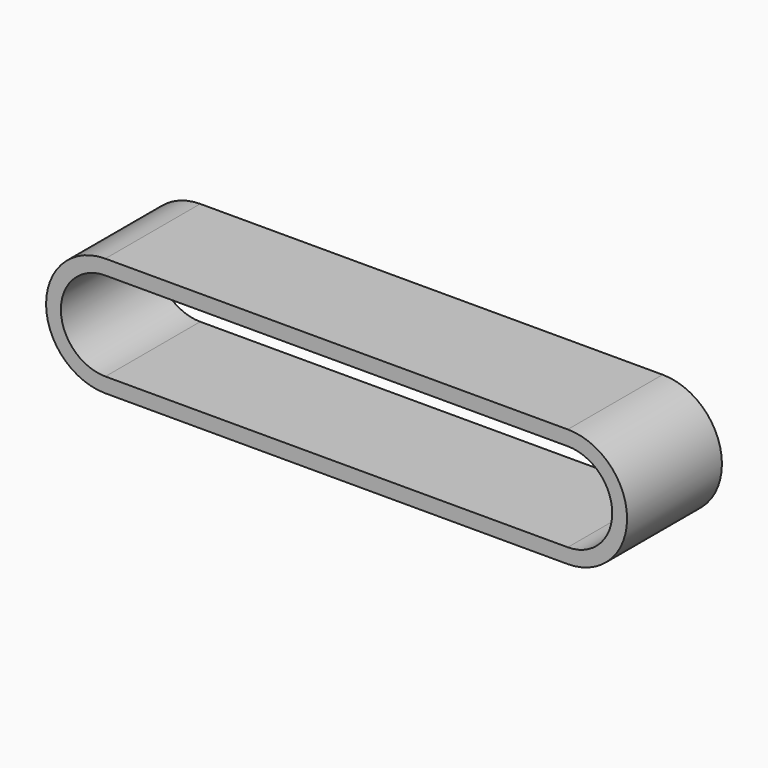
from build123d import *

# Parameters (mm, degrees)
F1_DEPTH = 20


with BuildPart() as f1:
    # F0 (on Front) → F1 (new body)
    with BuildSketch(Plane.XZ):
        with BuildLine():
            ThreePointArc((-7.958715, 20), (-17.958715, 10), (-7.958715, 0))
            Line((-7.958715, 0), (70.041285, 0))
            ThreePointArc((70.041285, 0), (80.041285, 10), (70.041285, 20))
            Line((70.041285, 20), (-7.958715, 20))
        make_face()
        with BuildLine():
            ThreePointArc((70.041285, 17.5), (77.541285, 10), (70.041285, 2.5))
            Line((70.041285, 2.5), (-7.958715, 2.5))
            ThreePointArc((-7.958715, 2.5), (-15.458715, 10), (-7.958715, 17.5))
            Line((-7.958715, 17.5), (70.041285, 17.5))
        make_face(mode=Mode.SUBTRACT)
    extrude(amount=F1_DEPTH)


solid = f1.part
